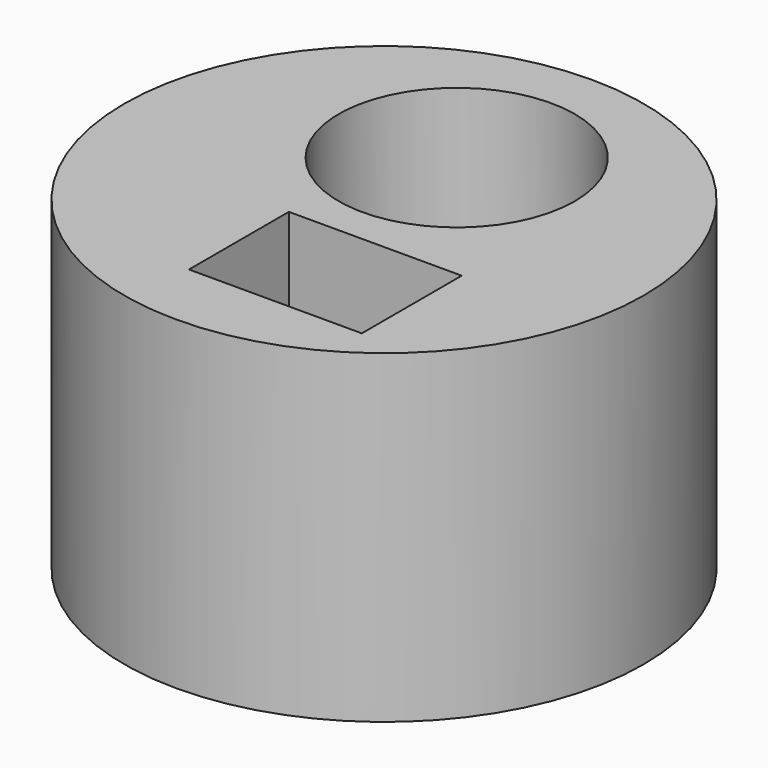
from build123d import *

# Parameters (mm, degrees)
F0_W     = 44
F0_H     = 55
F2_R     = 20
F3_DEPTH = 133.830428
F4_W     = 29.281278
F4_H     = 21.154624
F5_DEPTH = 25


with BuildPart() as f1:
    # F0 (on Front) → F1 (revolve)
    with BuildSketch(Plane.XZ):
        with Locations((-22, 27.5)):
            Rectangle(F0_W, F0_H)
    revolve(axis=Axis((0, 0, 27.5), (0, 0, -1)))

    # F2 (on face) → F3 (cut)
    with BuildSketch(Plane(origin=(0, 0, 0), x_dir=(1, 0, 0), z_dir=(0, 0, -1))):
        with Locations((0, -15.39881)):
            Circle(F2_R)
    extrude(amount=-F3_DEPTH, mode=Mode.SUBTRACT)

    # F4 (on face) → F5 (cut)
    with BuildSketch(Plane.XY.offset(55)):
        with Locations((6.999669, -21.173684)):
            Rectangle(F4_W, F4_H)
    extrude(amount=-F5_DEPTH, mode=Mode.SUBTRACT)


solid = f1.part
